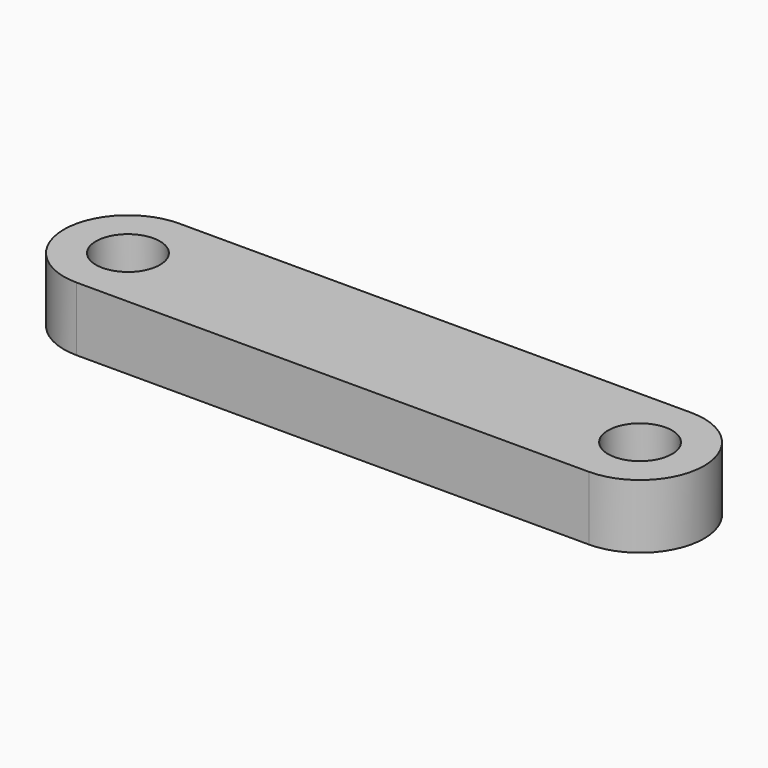
from build123d import *

# Parameters (mm, degrees)
F1_DEPTH = 10
F2_R     = 5
F3_DEPTH = 10.001


with BuildPart() as f1:
    # F0 (on Top) → F1 (new body)
    with BuildSketch(Plane.XY):
        with BuildLine():
            Line((80, 10), (0, 10))
            ThreePointArc((0, 10), (-10, 0), (0, -10))
            Line((0, -10), (80, -10))
            ThreePointArc((80, -10), (90, 0), (80, 10))
        make_face()
    extrude(amount=-F1_DEPTH)

    # F2 (on face) → F3 (cut, through all)
    with BuildSketch(Plane.XY):
        Circle(F2_R)
        with Locations((80, 0)):
            Circle(F2_R)
    extrude(amount=-F3_DEPTH, mode=Mode.SUBTRACT)


solid = f1.part
